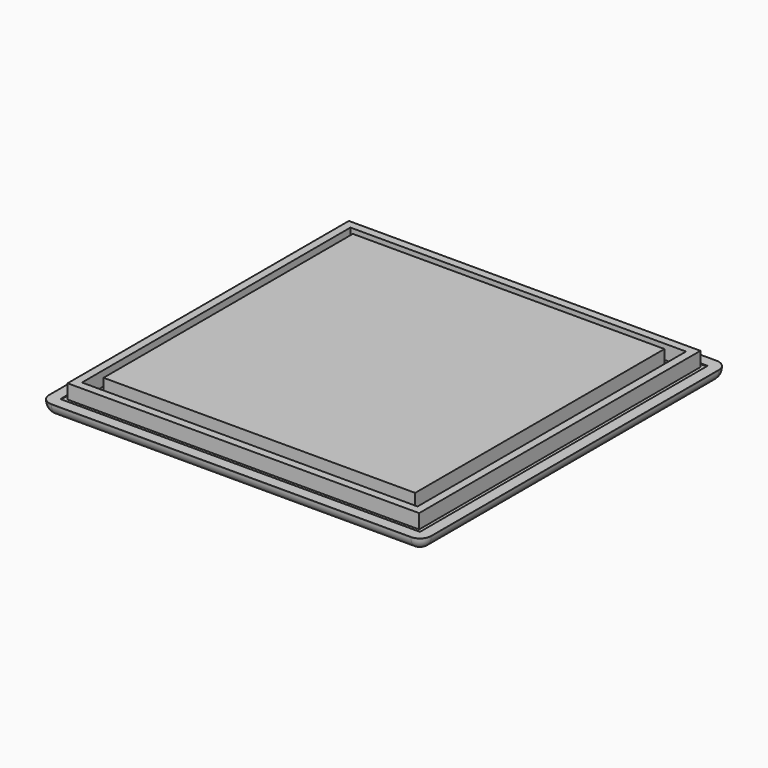
from build123d import *

# Parameters (mm, degrees)
SKETCH_W      = 45
SKETCH_H      = 45
PAD_DEPTH     = 0.1
THICKNESS_T   = 1.4
SKETCH001_W   = 44
SKETCH001_H   = 44
SKETCH001_W_2 = 42
SKETCH001_H_2 = 42
PAD001_DEPTH  = 1.8
SKETCH002_W   = 39
SKETCH002_H   = 39
PAD002_DEPTH  = 2.2


with BuildPart() as part:
    # Sketch → Pad (new body)
    with BuildSketch(Plane.XY):
        with Locations((22.5, 22.5)):
            Rectangle(SKETCH_W, SKETCH_H)
    extrude(amount=PAD_DEPTH)

    # Thickness
    thickness_openings = [part.faces().sort_by_distance(p)[0] for p in [
        (22.5, 22.5, 0.1),
    ]]
    offset(amount=THICKNESS_T, openings=thickness_openings)

    # Sketch001 → Pad001 (new body)
    with BuildSketch(Plane.XY):
        with Locations((22.5, 22.5)):
            Rectangle(SKETCH001_W, SKETCH001_H)
        with Locations((22.5, 22.5)):
            Rectangle(SKETCH001_W_2, SKETCH001_H_2, mode=Mode.SUBTRACT)
    extrude(amount=PAD001_DEPTH)

    # Sketch002 → Pad002 (new body)
    with BuildSketch(Plane.XY):
        with Locations((22.5, 22.5)):
            Rectangle(SKETCH002_W, SKETCH002_H)
    extrude(amount=PAD002_DEPTH)


solid = part.part
